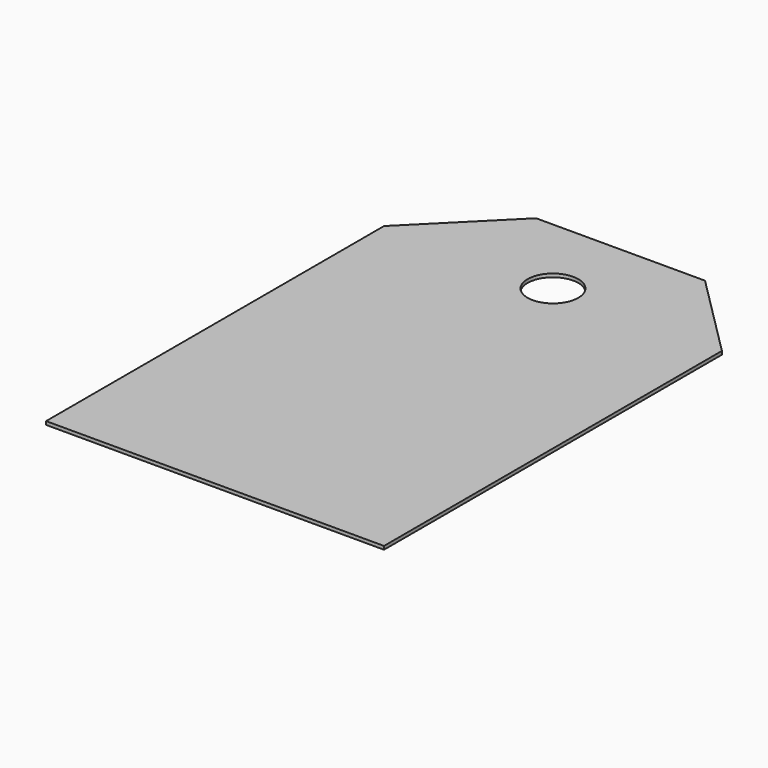
from build123d import *

# Parameters (mm, degrees)
F0_R     = 7.5
F1_DEPTH = 1


with BuildPart() as f1:
    # F0 (on Top) → F1 (new body)
    with BuildSketch(Plane.XY):
        Polygon((0, 125), (0, 0), (100, 0), (100, 125), (75, 150), (25, 150), align=None)
        with Locations((50, 125)):
            Circle(F0_R, mode=Mode.SUBTRACT)
        Polygon((0, 125), (0, 0), (100, 0), (100, 125), (75, 150), (25, 150), align=None)
        with Locations((50, 125)):
            Circle(F0_R, mode=Mode.SUBTRACT)
    extrude(amount=F1_DEPTH)


solid = f1.part
